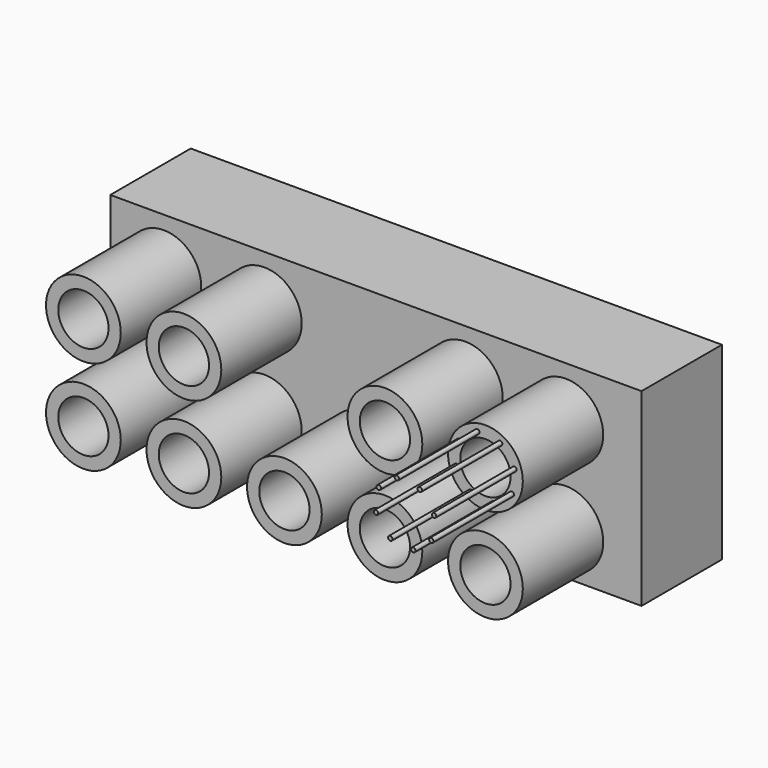
from build123d import *

# Parameters (mm, degrees)
F0_W     = 134.2407502234
F0_H     = 47.7859321982
F1_DEPTH = 25.4
F2_R     = 9.4477433257
F2_R_2   = 6.35
F3_DEPTH = 25.4
F4_DEPTH = 25.4
F5_R     = 0.5595851591
F6_DEPTH = 25.4


with BuildPart() as f1:
    # F0 (on Front) → F1 (new body)
    with BuildSketch(Plane.XZ):
        with Locations((6.7591946572, 1.1003343388)):
            Rectangle(F0_W, F0_H)
    extrude(amount=F1_DEPTH)

    # F2 (on face) → F3 (join)
    with BuildSketch(Plane.XZ.offset(25.4)):
        with Locations((-46.8427911401, 12.1036730707)):
            Circle(F2_R)
        with Locations((-46.8427911401, 12.1036730707)):
            Circle(F2_R_2, mode=Mode.SUBTRACT)
        with Locations((-46.8427911401, -11.7723269293)):
            Circle(F2_R)
        with Locations((-46.8427911401, -11.7723269293)):
            Circle(F2_R_2, mode=Mode.SUBTRACT)
        with Locations((-21.4427911401, 12.1036730707)):
            Circle(F2_R)
        with Locations((-21.4427911401, 12.1036730707)):
            Circle(F2_R_2, mode=Mode.SUBTRACT)
        with Locations((-21.4427911401, -11.7723269293)):
            Circle(F2_R)
        with Locations((-21.4427911401, -11.7723269293)):
            Circle(F2_R_2, mode=Mode.SUBTRACT)
        with Locations((3.9572088599, -11.7723269293)):
            Circle(F2_R)
        with Locations((3.9572088599, -11.7723269293)):
            Circle(F2_R_2, mode=Mode.SUBTRACT)
        with Locations((29.3572088599, 12.1036730707)):
            Circle(F2_R)
        with Locations((29.3572088599, 12.1036730707)):
            Circle(F2_R_2, mode=Mode.SUBTRACT)
        with Locations((29.3572088599, -11.7723269293)):
            Circle(F2_R)
        with Locations((29.3572088599, -11.7723269293)):
            Circle(F2_R_2, mode=Mode.SUBTRACT)
        with Locations((54.7572088599, 12.1036730707)):
            Circle(F2_R)
        with Locations((54.7572088599, 12.1036730707)):
            Circle(F2_R_2, mode=Mode.SUBTRACT)
        with Locations((54.7572088599, -11.7723269293)):
            Circle(F2_R)
        with Locations((54.7572088599, -11.7723269293)):
            Circle(F2_R_2, mode=Mode.SUBTRACT)
    extrude(amount=F3_DEPTH)

    # F4 (cut): faces of the model
    f4_faces = [f1.faces().sort_by_distance(p)[0] for p in [
        (-46.8427911401, -25.4, 12.1036730707),
        (-21.4427911401, -25.4, 12.1036730707),
        (29.3572088599, -25.4, 12.1036730707),
        (54.7572088599, -25.4, 12.1036730707),
        (54.7572088599, -25.4, -11.7723269293),
        (29.3572088599, -25.4, -11.7723269293),
        (3.9572088599, -25.4, -11.7723269293),
        (-21.4427911401, -25.4, -11.7723269293),
        (-46.8427911401, -25.4, -11.7723269293),
    ]]
    extrude(f4_faces, amount=-F4_DEPTH, mode=Mode.SUBTRACT)


with BuildPart() as f6:
    # F5 (on face) → F6 (new body)
    with BuildSketch(Plane.XZ.offset(50.8)):
        with Locations((48.1095694574, 15.8283596848)):
            Circle(F5_R)
    extrude(amount=F6_DEPTH)


with BuildPart() as f6b:
    # F5 (on face) → F6, piece 2 (new body)
    with BuildSketch(Plane.XZ.offset(50.8)):
        with Locations((52.6903691221, 19.4380151337)):
            Circle(F5_R)
    extrude(amount=F6_DEPTH)


with BuildPart() as f6c:
    # F5 (on face) → F6, piece 3 (new body)
    with BuildSketch(Plane.XZ.offset(50.8)):
        with Locations((58.481895474, 18.7513124732)):
            Circle(F5_R)
    extrude(amount=F6_DEPTH)


with BuildPart() as f6d:
    # F5 (on face) → F6, piece 4 (new body)
    with BuildSketch(Plane.XZ.offset(50.8)):
        with Locations((62.091550923, 14.1705128085)):
            Circle(F5_R)
    extrude(amount=F6_DEPTH)


with BuildPart() as f6e:
    # F5 (on face) → F6, piece 5 (new body)
    with BuildSketch(Plane.XZ.offset(50.8)):
        with Locations((61.4048482625, 8.3789864565)):
            Circle(F5_R)
    extrude(amount=F6_DEPTH)


with BuildPart() as f6f:
    # F5 (on face) → F6, piece 6 (new body)
    with BuildSketch(Plane.XZ.offset(50.8)):
        with Locations((56.8240485977, 4.7693310076)):
            Circle(F5_R)
    extrude(amount=F6_DEPTH)


with BuildPart() as f6g:
    # F5 (on face) → F6, piece 7 (new body)
    with BuildSketch(Plane.XZ.offset(50.8)):
        with Locations((51.0325222458, 5.4560336681)):
            Circle(F5_R)
    extrude(amount=F6_DEPTH)


with BuildPart() as f6h:
    # F5 (on face) → F6, piece 8 (new body)
    with BuildSketch(Plane.XZ.offset(50.8)):
        with Locations((47.4228667968, 10.0368333329)):
            Circle(F5_R)
    extrude(amount=F6_DEPTH)


solid = Compound([f1.part, f6.part, f6b.part, f6c.part, f6d.part, f6e.part, f6f.part, f6g.part, f6h.part])
